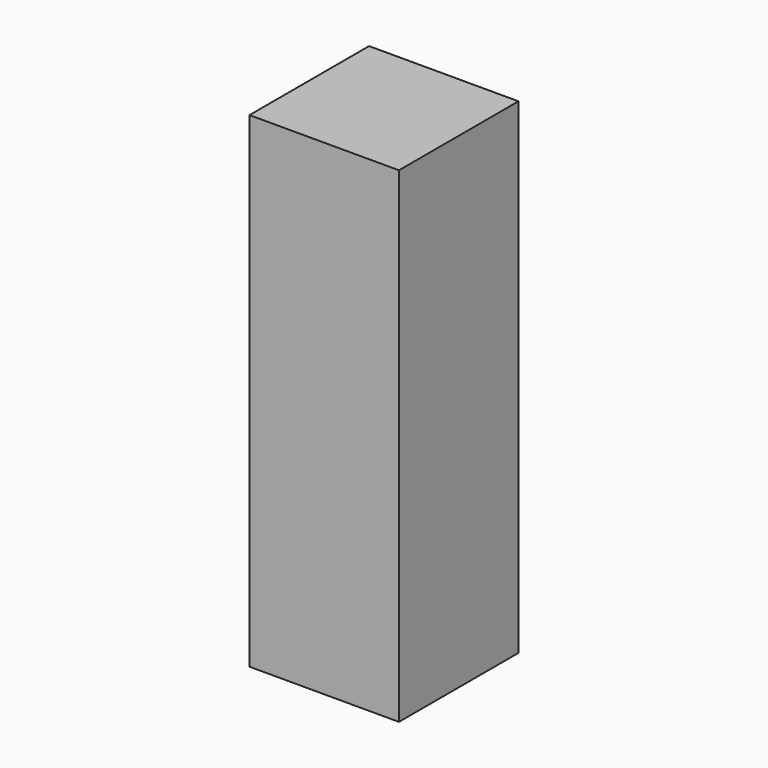
from build123d import *

# Parameters (mm, degrees)
SKETCH_W  = 40
SKETCH_H  = 40
PAD_DEPTH = 130


with BuildPart() as part:
    # Sketch → Pad (new body)
    with BuildSketch(Plane.XY):
        with Locations((20, 20)):
            Rectangle(SKETCH_W, SKETCH_H)
    extrude(amount=PAD_DEPTH)


solid = part.part
